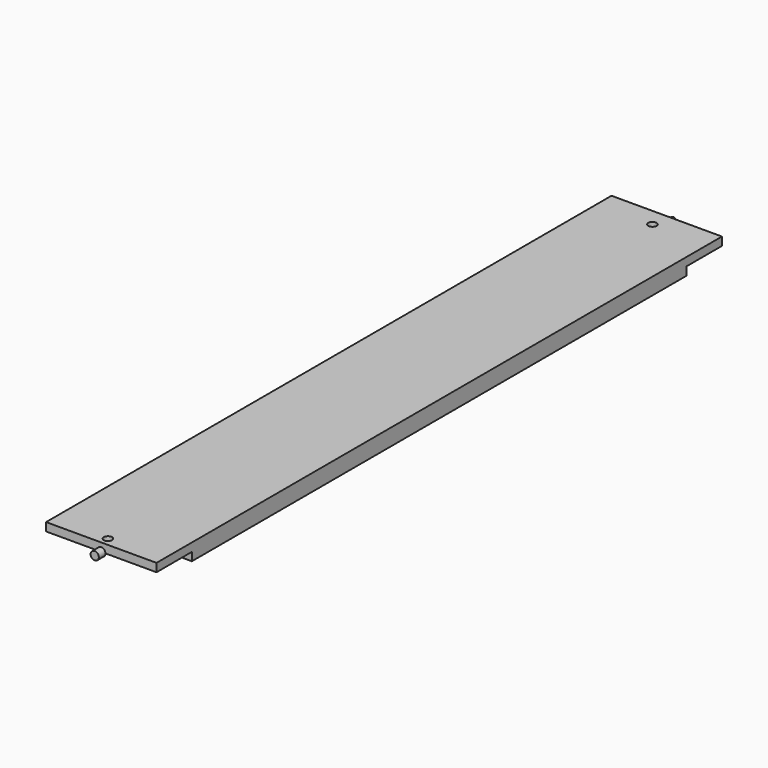
from build123d import *

# Parameters (mm, degrees)
F1_DEPTH = 127
F2_R     = 4.7625
F3_DEPTH = 25.4
F5_R     = 4.7625
F6_DEPTH = 9.525
F8_R     = 4.7625
F9_DEPTH = 9.525


with BuildPart() as f1:
    # F0 (on Right) → F1 (new body)
    with BuildSketch(Plane.YZ):
        Polygon((-355.6, 0), (-355.6, -9.525), (355.6, -9.525), (355.6, 0), (406.4, 0), (406.4, 9.525), (-406.4, 9.525), (-406.4, 0), align=None)
    extrude(amount=F1_DEPTH)

    # F2 (on face) → F3 (cut)
    with BuildSketch(Plane(origin=(0, 0, -9.525), x_dir=(1, 0, 0), z_dir=(0, 0, -1))):
        with Locations((63.5, -385.929012)):
            Circle(F2_R)
        with Locations((63.5, 396.875)):
            Circle(F2_R)
    extrude(amount=-F3_DEPTH, mode=Mode.SUBTRACT)

    # F8 (on offset) → F9 (join)
    with BuildSketch(Plane.XZ.offset(-406.3746)):
        with Locations((63.5, 0)):
            Circle(F8_R)
    extrude(amount=-F9_DEPTH)


with BuildPart() as f6:
    # F5 (on offset) → F6 (new body)
    with BuildSketch(Plane.XZ.offset(406.3746)):
        with Locations((63.5, 0)):
            Circle(F5_R)
    extrude(amount=F6_DEPTH)


solid = Compound([f1.part, f6.part])
